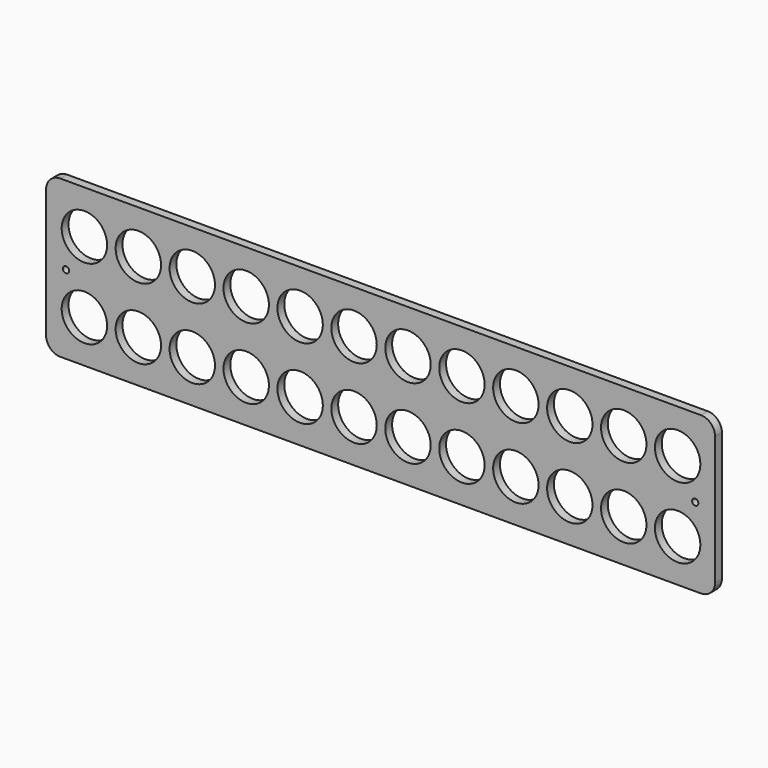
from build123d import *

# Parameters (mm, degrees)
F1_DEPTH = 3
F2_R     = 8
F2_R_2   = 1.1
F3_DEPTH = 25


with BuildPart() as f1:
    # F0 (on Front) → F1 (new body)
    with BuildSketch(Plane.XZ):
        with BuildLine():
            ThreePointArc((0, 5), (1.464466, 1.464466), (5, 0))
            Line((5, 0), (230.7, 0))
            ThreePointArc((230.7, 0), (234.235534, 1.464466), (235.7, 5))
            Line((235.7, 5), (235.7, 50.3))
            ThreePointArc((235.7, 50.3), (234.235534, 53.835534), (230.7, 55.3))
            Line((230.7, 55.3), (5, 55.3))
            ThreePointArc((5, 55.3), (1.464466, 53.835534), (0, 50.3))
            Line((0, 50.3), (0, 5))
        make_face()
    extrude(amount=F1_DEPTH)

    # F2 (on face) → F3 (cut)
    with BuildSketch(Plane.XZ.offset(3)):
        with Locations((13.5, 15)):
            Circle(F2_R)
        with Locations((13.5, 40)):
            Circle(F2_R)
        with Locations((32.5, 15)):
            Circle(F2_R)
        with Locations((32.5, 40)):
            Circle(F2_R)
        with Locations((51.5, 15)):
            Circle(F2_R)
        with Locations((51.5, 40)):
            Circle(F2_R)
        with Locations((70.5, 15)):
            Circle(F2_R)
        with Locations((70.5, 40)):
            Circle(F2_R)
        with Locations((89.5, 15)):
            Circle(F2_R)
        with Locations((89.5, 40)):
            Circle(F2_R)
        with Locations((108.5, 15)):
            Circle(F2_R)
        with Locations((108.5, 40)):
            Circle(F2_R)
        with Locations((127.5, 15)):
            Circle(F2_R)
        with Locations((127.5, 40)):
            Circle(F2_R)
        with Locations((146.5, 15)):
            Circle(F2_R)
        with Locations((146.5, 40)):
            Circle(F2_R)
        with Locations((165.5, 15)):
            Circle(F2_R)
        with Locations((165.5, 40)):
            Circle(F2_R)
        with Locations((184.5, 15)):
            Circle(F2_R)
        with Locations((184.5, 40)):
            Circle(F2_R)
        with Locations((203.5, 15)):
            Circle(F2_R)
        with Locations((203.5, 40)):
            Circle(F2_R)
        with Locations((222.5, 15)):
            Circle(F2_R)
        with Locations((222.5, 40)):
            Circle(F2_R)
        with Locations((7, 27.65)):
            Circle(F2_R_2)
        with Locations((228.7, 27.65)):
            Circle(F2_R_2)
    extrude(amount=-F3_DEPTH, mode=Mode.SUBTRACT)


solid = f1.part
